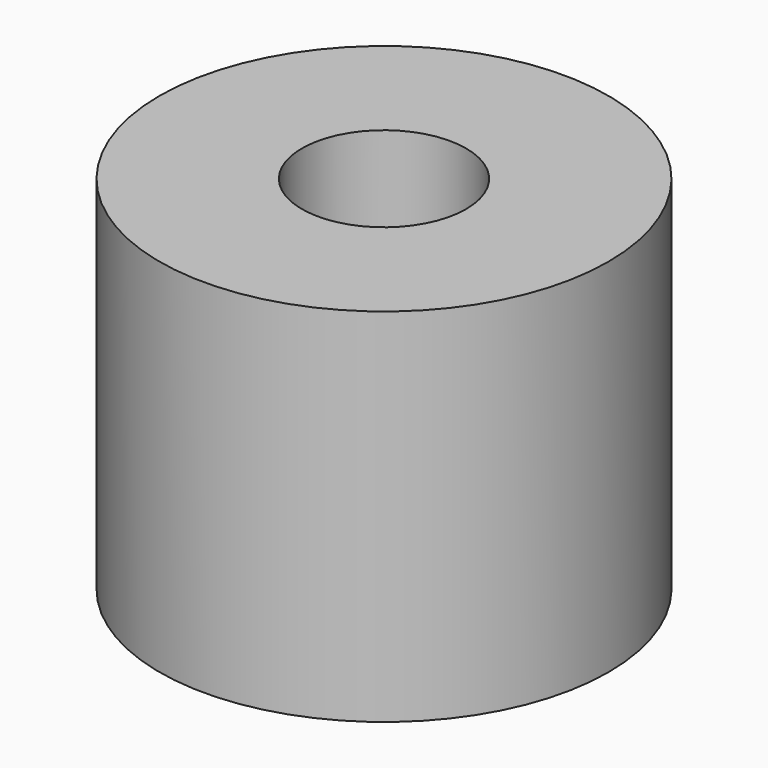
from build123d import *

# Parameters (mm, degrees)
CYLINDER220_R     = 1.5
CYLINDER220_DEPTH = 10
CYLINDER093_R     = 4.1
CYLINDER093_DEPTH = 6.6


with BuildPart() as cylinder220:
    # Cylinder220 → Cylinder220 (new body)
    with BuildSketch(Plane.XY.offset(-1.9)):
        Circle(CYLINDER220_R)
    extrude(amount=CYLINDER220_DEPTH)


with BuildPart() as cut006:
    # Cylinder093 → Cylinder093 (new body)
    with BuildSketch(Plane.XY):
        Circle(CYLINDER093_R)
    extrude(amount=CYLINDER093_DEPTH)

    # Cut006: cut Cylinder220
    add(cylinder220.part, mode=Mode.SUBTRACT)


with BuildPart() as cut006_1:
    # Cut006 placement: moved
    add(cut006.part.moved(Location((76.8, 197.2, 52.1))))


solid = cut006_1.part
